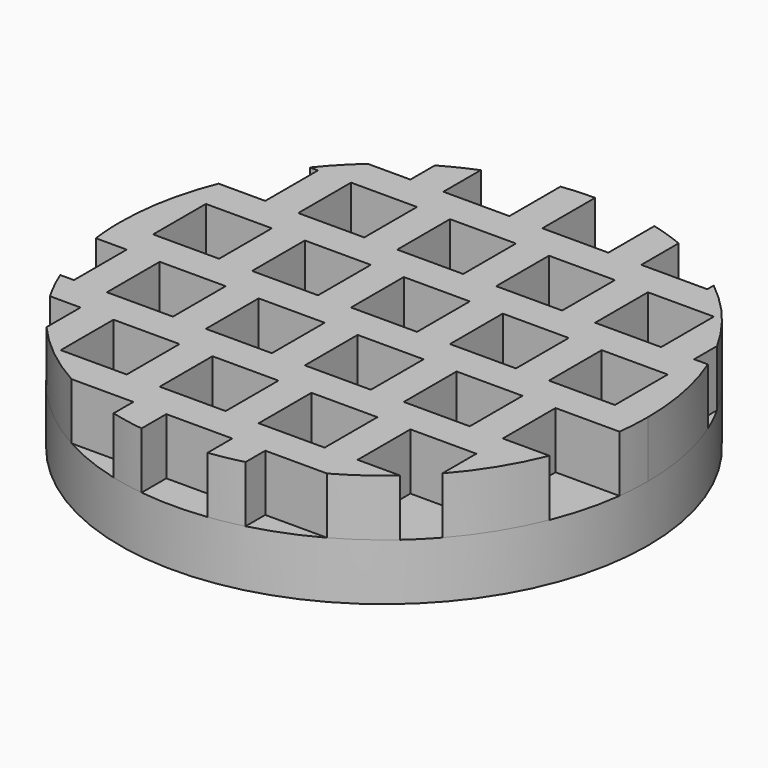
from build123d import *

# Parameters (mm, degrees)
F0_R     = 14
F1_DEPTH = 3
F2_W     = 3.5
F2_H     = 3.5
F3_DEPTH = 3


with BuildPart() as f1:
    # F0 (on Top) → F1 (new body)
    with BuildSketch(Plane.XY):
        Circle(F0_R)
    extrude(amount=F1_DEPTH)

    # F2 (on face) → F3 (join)
    with BuildSketch(Plane.XY.offset(3)):
        with BuildLine():
            ThreePointArc((-5.25, 12.9783473524), (-6.1398656708, 12.581814239), (-7, 12.124355653))
            Line((-7, 12.124355653), (-7, 10.5))
            Line((-7, 10.5), (-9.2601295887, 10.5))
            ThreePointArc((-9.2601295887, 10.5), (-10.1322901855, 9.6610918429), (-10.9287464972, 8.75))
            Line((-10.9287464972, 8.75), (-10.5, 8.75))
            Line((-10.5, 8.75), (-10.5, 5.25))
            Line((-10.5, 5.25), (-12.9783473524, 5.25))
            ThreePointArc((-12.9783473524, 5.25), (-13.742213485, 2.6742416744), (-14, 0))
            ThreePointArc((-14, 0), (-13.9725216293, -0.8767207756), (-13.8901943831, -1.75))
            Line((-13.8901943831, -1.75), (-12.25, -1.75))
            Line((-12.25, -1.75), (-12.25, -5.25))
            Line((-12.25, -5.25), (-12.9783473524, -5.25))
            ThreePointArc((-12.9783473524, -5.25), (-12.581814239, -6.1398656708), (-12.124355653, -7))
            Line((-12.124355653, -7), (-10.5, -7))
            Line((-10.5, -7), (-10.5, -9.2601295887))
            ThreePointArc((-10.5, -9.2601295887), (-8.7672538895, -10.914909951), (-6.7777208559, -12.25))
            Line((-6.7777208559, -12.25), (-3.5, -12.25))
            Line((-3.5, -12.25), (-3.5, -13.5554417117))
            ThreePointArc((-3.5, -13.5554417117), (-2.6303307468, -13.750685807), (-1.75, -13.8901943831))
            Line((-1.75, -13.8901943831), (-1.75, -12.25))
            Line((-1.75, -12.25), (1.75, -12.25))
            Line((1.75, -12.25), (1.75, -13.8901943831))
            ThreePointArc((1.75, -13.8901943831), (2.6303307468, -13.750685807), (3.5, -13.5554417117))
            Line((3.5, -13.5554417117), (3.5, -12.25))
            Line((3.5, -12.25), (6.7777208559, -12.25))
            ThreePointArc((6.7777208559, -12.25), (8.0665225916, -11.4425177858), (9.2601295887, -10.5))
            Line((9.2601295887, -10.5), (7, -10.5))
            Line((7, -10.5), (7, -7))
            Line((7, -7), (10.5, -7))
            Line((10.5, -7), (10.5, -9.2601295887))
            ThreePointArc((10.5, -9.2601295887), (11.9091764379, -7.3601302006), (12.9783473524, -5.25))
            Line((12.9783473524, -5.25), (10.5, -5.25))
            Line((10.5, -5.25), (10.5, -1.75))
            Line((10.5, -1.75), (13.8901943831, -1.75))
            ThreePointArc((13.8901943831, -1.75), (13.9725216293, -0.8767207756), (14, 0))
            ThreePointArc((14, 0), (13.742213485, 2.6742416744), (12.9783473524, 5.25))
            Line((12.9783473524, 5.25), (12.25, 5.25))
            Line((12.25, 5.25), (12.25, 6.7777208559))
            ThreePointArc((12.25, 6.7777208559), (10.7031655817, 9.024535807), (8.75, 10.9287464972))
            Line((8.75, 10.9287464972), (8.75, 10.5))
            Line((8.75, 10.5), (5.25, 10.5))
            Line((5.25, 10.5), (5.25, 12.9783473524))
            ThreePointArc((5.25, 12.9783473524), (4.3845050433, 13.2957179394), (3.5, 13.5554417117))
            Line((3.5, 13.5554417117), (3.5, 10.5))
            Line((3.5, 10.5), (0, 10.5))
            Line((0, 10.5), (0, 14))
            ThreePointArc((0, 14), (-0.8767207756, 13.9725216293), (-1.75, 13.8901943831))
            Line((-1.75, 13.8901943831), (-1.75, 10.5))
            Line((-1.75, 10.5), (-5.25, 10.5))
            Line((-5.25, 10.5), (-5.25, 12.9783473524))
        make_face()
        with Locations((-7, -8.75)):
            Rectangle(F2_W, F2_H, mode=Mode.SUBTRACT)
        with Locations((-1.75, -8.75)):
            Rectangle(F2_W, F2_H, mode=Mode.SUBTRACT)
        with Locations((3.5, -8.75)):
            Rectangle(F2_W, F2_H, mode=Mode.SUBTRACT)
        with Locations((-8.75, -3.5)):
            Rectangle(F2_W, F2_H, mode=Mode.SUBTRACT)
        with Locations((-3.5, -3.5)):
            Rectangle(F2_W, F2_H, mode=Mode.SUBTRACT)
        with Locations((1.75, -3.5)):
            Rectangle(F2_W, F2_H, mode=Mode.SUBTRACT)
        with Locations((7, -3.5)):
            Rectangle(F2_W, F2_H, mode=Mode.SUBTRACT)
        with Locations((-10.5, 1.75)):
            Rectangle(F2_W, F2_H, mode=Mode.SUBTRACT)
        with Locations((-5.25, 1.75)):
            Rectangle(F2_W, F2_H, mode=Mode.SUBTRACT)
        with Locations((0, 1.75)):
            Rectangle(F2_W, F2_H, mode=Mode.SUBTRACT)
        with Locations((5.25, 1.75)):
            Rectangle(F2_W, F2_H, mode=Mode.SUBTRACT)
        with Locations((-7, 7)):
            Rectangle(F2_W, F2_H, mode=Mode.SUBTRACT)
        with Locations((-1.75, 7)):
            Rectangle(F2_W, F2_H, mode=Mode.SUBTRACT)
        with Locations((3.5, 7)):
            Rectangle(F2_W, F2_H, mode=Mode.SUBTRACT)
        with Locations((10.5, 1.75)):
            Rectangle(F2_W, F2_H, mode=Mode.SUBTRACT)
        with Locations((8.75, 7)):
            Rectangle(F2_W, F2_H, mode=Mode.SUBTRACT)
    extrude(amount=F3_DEPTH)


solid = f1.part
